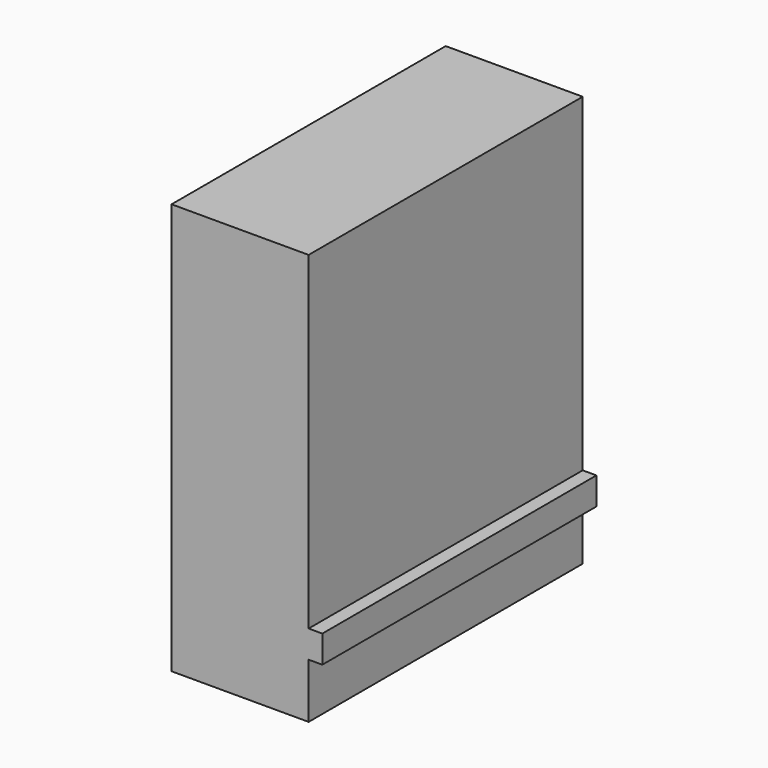
from build123d import *

# Parameters (mm, degrees)
F0_W     = 20
F0_H     = 50
F1_DEPTH = 60
F3_W     = 50
F3_H     = 4
F4_DEPTH = 2


with BuildPart() as f1:
    # F0 (on Top) → F1 (new body)
    with BuildSketch(Plane.XY):
        Rectangle(F0_W, F0_H)
    extrude(amount=F1_DEPTH)

    # F3 (on face) → F4 (join)
    with BuildSketch(Plane.YZ.offset(10)):
        with Locations((0, 10)):
            Rectangle(F3_W, F3_H)
    extrude(amount=F4_DEPTH)


solid = f1.part
